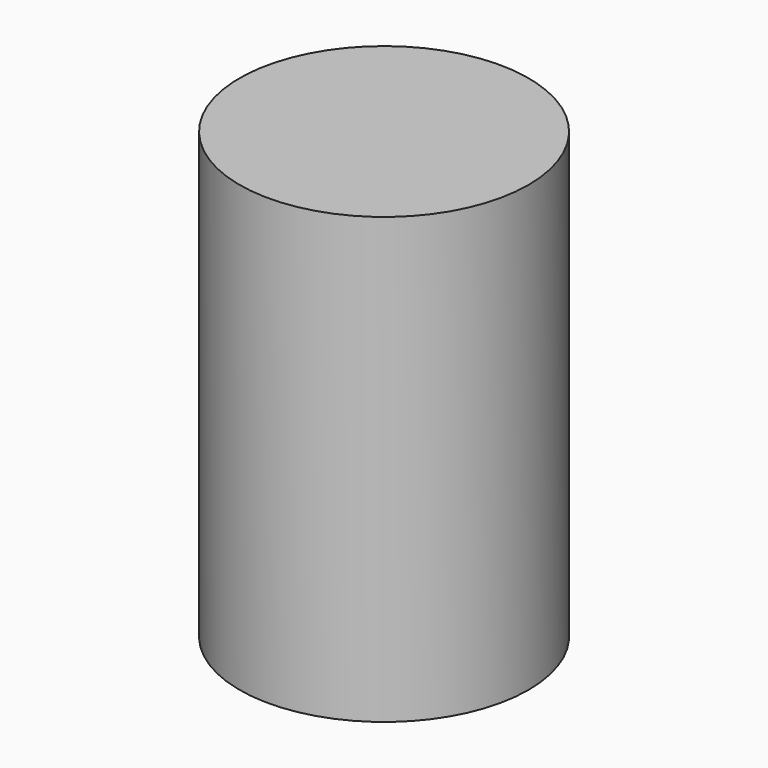
from build123d import *

# Parameters (mm, degrees)
SKETCH_R  = 3.25
PAD_DEPTH = 10


with BuildPart() as part:
    # Sketch → Pad (new body)
    with BuildSketch(Plane.XY):
        Circle(SKETCH_R)
    extrude(amount=PAD_DEPTH)


solid = part.part
